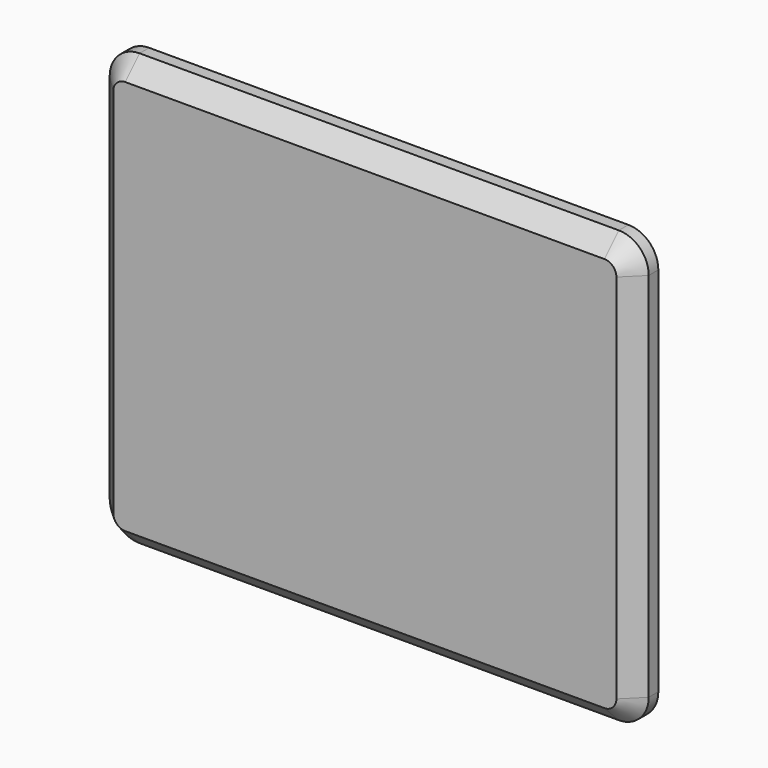
from build123d import *

# Parameters (mm, degrees)
SKETCH170_W     = 180
SKETCH170_H     = 144
PAD047_DEPTH    = 10
FILLET026_R     = 10
CHAMFER012_SIZE = 6
SKETCH171_R     = 2
POCKET058_DEPTH = 5


with BuildPart() as part:
    # Sketch170 → Pad047 (new body)
    with BuildSketch(Plane.XZ):
        Rectangle(SKETCH170_W, SKETCH170_H)
    extrude(amount=PAD047_DEPTH)

    # Fillet026
    fillet026_edges = [part.edges().sort_by_distance(p)[0] for p in [
        (-90, -5, 72),
        (90, -5, 72),
        (90, -5, -72),
        (-90, -5, -72),
    ]]
    fillet(fillet026_edges, radius=FILLET026_R)

    # Chamfer012
    chamfer012_edges = [part.edges().sort_by_distance(p)[0] for p in [
        (0, -10, 72),
        (90, -10, 0),
        (0, -10, -72),
        (-90, -10, 0),
    ]]
    chamfer(chamfer012_edges, length=CHAMFER012_SIZE)

    # Sketch171 (on Face4 of Chamfer012) → Pocket058 (cut)
    with BuildSketch(Plane(origin=(0, 0, 0), x_dir=(1, 0, 0), z_dir=(0, 1, 0))):
        with Locations((-80, -66)):
            Circle(SKETCH171_R)
        with Locations((-80, 45)):
            Circle(SKETCH171_R)
        with Locations((82.5, 43)):
            Circle(SKETCH171_R)
        with Locations((82.5, -47)):
            Circle(SKETCH171_R)
    extrude(amount=-POCKET058_DEPTH, mode=Mode.SUBTRACT)


with BuildPart() as part_1:
    # Body017 placement: moved
    add(part.part.moved(Location((-113, -183, 0))))


solid = part_1.part
